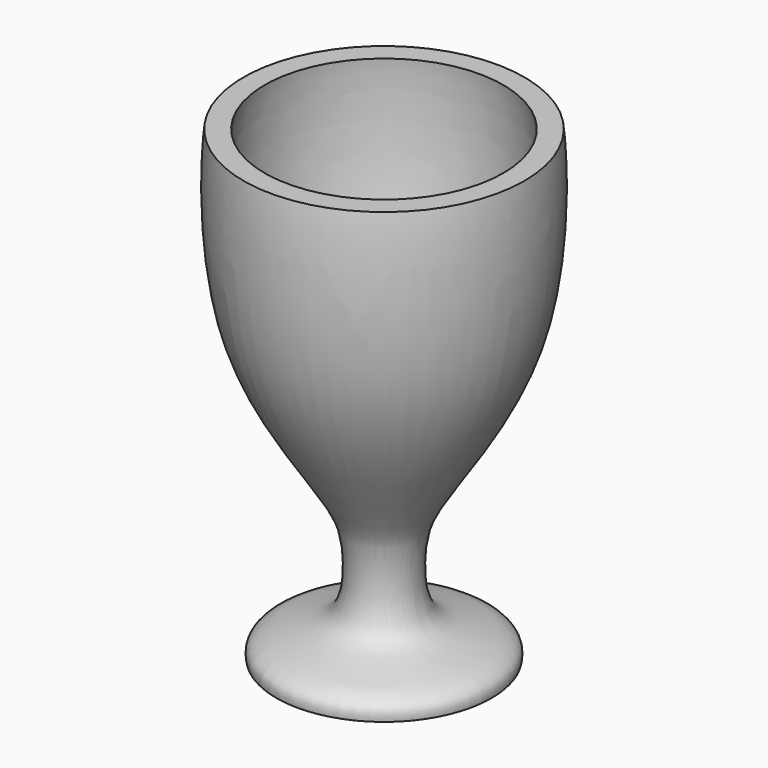
from build123d import *


with BuildPart() as f1:
    # F0 (on Front) → F1 (revolve)
    with BuildSketch(Plane.XZ):
        with BuildLine():
            add(Edge.make_bspline(
                [(15.0875008333, 42.3953242924), (15.3880495616, 39.9671350371), (16.3053936573, 21.6339173464), (4.11643932, 7.4070986934), (3.336013191, 2.2462195777), (3.5366142936, -4.2095331314), (9.0914785546, -4.9108302606), (11.8753802262, -6.2599877655), (11.5343984044, -7.845895486), (11.5496342082, -7.6046757076), (11.5522064625, -7.5635779147)],
                knots=[0, 0, 0, 0, 0.2368380506, 0.4720245556, 0.5934687469, 0.7177495105, 0.8388712148, 0.9302434098, 0.9825533376, 1, 1, 1, 1], degree=3))
            Line((15.0875008333, 42.3953242924), (12.822879805, 42.3953242924))
            add(Edge.make_bspline(
                [(12.822879805, 42.3953242924), (13.2047479742, 39.7214839198), (13.5852953686, 22.2008408405), (2.9947424458, 8.9283531576), (0.807390735, 4.9871464079), (0, 4.3510970869)],
                knots=[0, 0, 0, 0, 0.4036847395, 0.7983945913, 1, 1, 1, 1], degree=3))
            Line((0, 4.3510970869), (0, -7.5635779147))
            Line((0, -7.5635779147), (11.5522064625, -7.5635779147))
        make_face()
    revolve(axis=Axis((0, 0, -1.6062404139), (0, 0, -1)))


solid = f1.part
